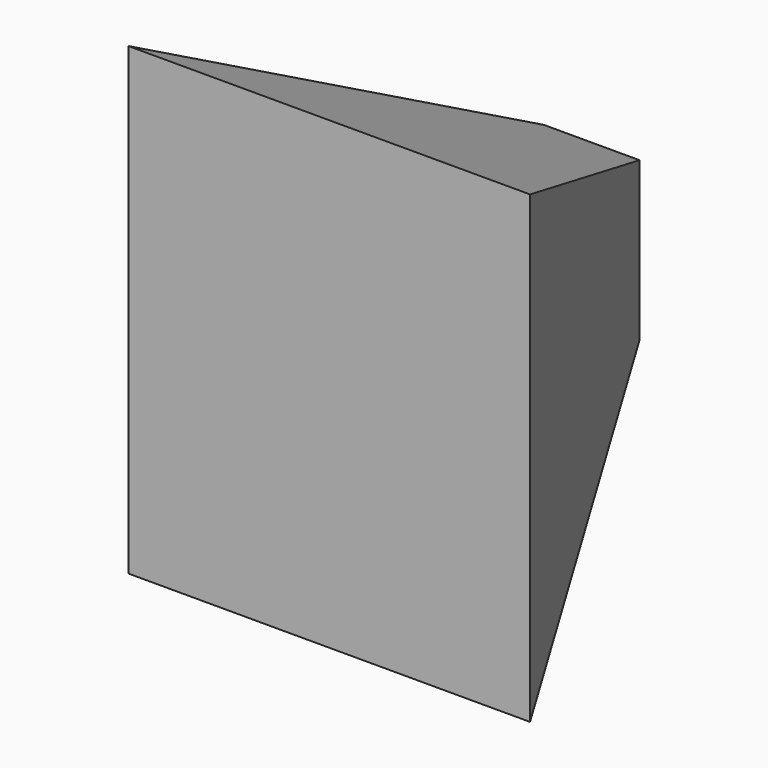
from build123d import *

# Parameters (mm, degrees)
F0_W     = 37.004634738
F0_H     = 61.3266937435
F1_DEPTH = 127
F1_TAPER = -25


with BuildPart() as f1:
    # F0 (on Front) → F1 (new body)
    with BuildSketch(Plane.XZ):
        with Locations((61.5077242255, -1.4333371073)):
            Rectangle(F0_W, F0_H)
    extrude(amount=F1_DEPTH, taper=F1_TAPER)


solid = f1.part
